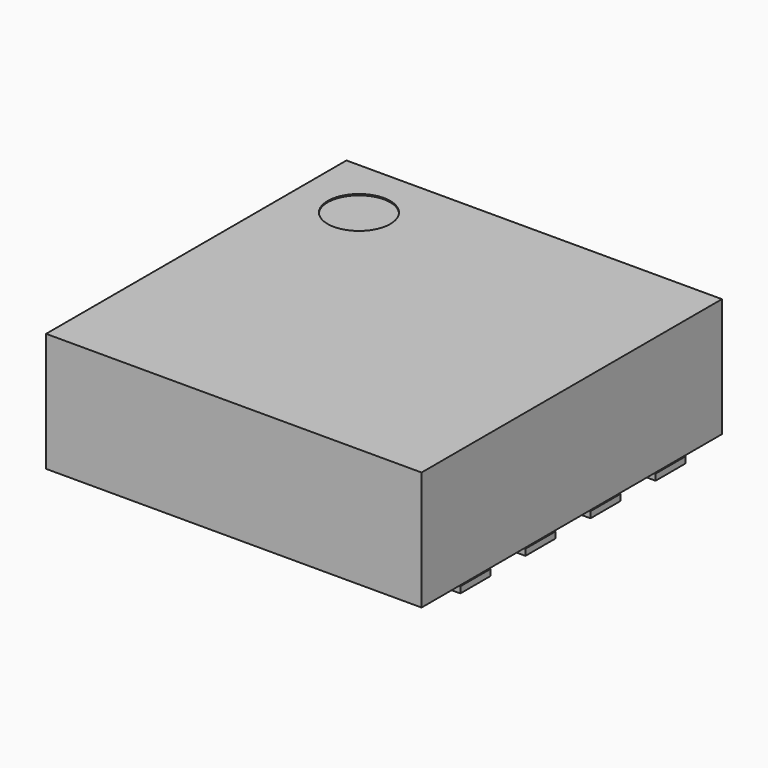
from build123d import *

# Parameters (mm, degrees)
PAD_DEPTH                 = 0.05
SKETCH001_W               = 3
SKETCH001_H               = 3
PAD001_DEPTH              = 0.95
PAD_LINEARPATTERN_2_DEPTH = 0.05
PAD_LINEARPATTERN_3_DEPTH = 0.05
PAD_LINEARPATTERN_4_DEPTH = 0.05
SKETCH002_R               = 0.25
POCKET_DEPTH              = 0.01


with BuildPart() as part:
    # Sketch → Pad (new body)
    with BuildSketch(Plane.XY):
        with BuildLine():
            Line((-1.51, 1.125), (-1.26, 1.125))
            ThreePointArc((-1.26, 0.825), (-1.11, 0.975), (-1.26, 1.125))
            Line((-1.26, 0.825), (-1.51, 0.825))
            Line((-1.51, 0.825), (-1.51, 1.125))
        make_face()
    pad = extrude(amount=PAD_DEPTH)

    # Sketch001 (on Face6 of Pad) → Pad001 (join)
    with BuildSketch(Plane.XY.offset(0.05)):
        Rectangle(SKETCH001_W, SKETCH001_H)
    extrude(amount=PAD001_DEPTH)

    # Sketch LinearPattern 2 → Pad LinearPattern 2 (add)
    with BuildSketch(Plane(origin=(0, -0.65, 0), x_dir=(1, 0, 0), z_dir=(0, 0, 1))):
        with BuildLine():
            Line((-1.51, 1.125), (-1.26, 1.125))
            ThreePointArc((-1.26, 0.825), (-1.11, 0.975), (-1.26, 1.125))
            Line((-1.26, 0.825), (-1.51, 0.825))
            Line((-1.51, 0.825), (-1.51, 1.125))
        make_face()
    pad_linearpattern_2 = extrude(amount=PAD_LINEARPATTERN_2_DEPTH)

    # Sketch LinearPattern 3 → Pad LinearPattern 3 (add)
    with BuildSketch(Plane(origin=(0, -1.3, 0), x_dir=(1, 0, 0), z_dir=(0, 0, 1))):
        with BuildLine():
            Line((-1.51, 1.125), (-1.26, 1.125))
            ThreePointArc((-1.26, 0.825), (-1.11, 0.975), (-1.26, 1.125))
            Line((-1.26, 0.825), (-1.51, 0.825))
            Line((-1.51, 0.825), (-1.51, 1.125))
        make_face()
    pad_linearpattern_3 = extrude(amount=PAD_LINEARPATTERN_3_DEPTH)

    # Sketch LinearPattern 4 → Pad LinearPattern 4 (add)
    with BuildSketch(Plane(origin=(0, -1.95, 0), x_dir=(1, 0, 0), z_dir=(0, 0, 1))):
        with BuildLine():
            Line((-1.51, 1.125), (-1.26, 1.125))
            ThreePointArc((-1.26, 0.825), (-1.11, 0.975), (-1.26, 1.125))
            Line((-1.26, 0.825), (-1.51, 0.825))
            Line((-1.51, 0.825), (-1.51, 1.125))
        make_face()
    pad_linearpattern_4 = extrude(amount=PAD_LINEARPATTERN_4_DEPTH)

    # Mirrored: Pad, Pad LinearPattern 2, Pad LinearPattern 3, Pad LinearPattern 4 across Sketch V_Axis
    add(pad.mirror(Plane(origin=(0, 0, 0), x_dir=(0, 0, 1), z_dir=(1, 0, 0))))
    add(pad_linearpattern_2.mirror(Plane(origin=(0, 0, 0), x_dir=(0, 0, 1), z_dir=(1, 0, 0))))
    add(pad_linearpattern_3.mirror(Plane(origin=(0, 0, 0), x_dir=(0, 0, 1), z_dir=(1, 0, 0))))
    add(pad_linearpattern_4.mirror(Plane(origin=(0, 0, 0), x_dir=(0, 0, 1), z_dir=(1, 0, 0))))

    # Sketch002 (on Face36 of MultiTransform) → Pocket (cut)
    with BuildSketch(Plane.XY.offset(1)):
        with Locations((-1, 1)):
            Circle(SKETCH002_R)
    extrude(amount=-POCKET_DEPTH, mode=Mode.SUBTRACT)


solid = part.part
